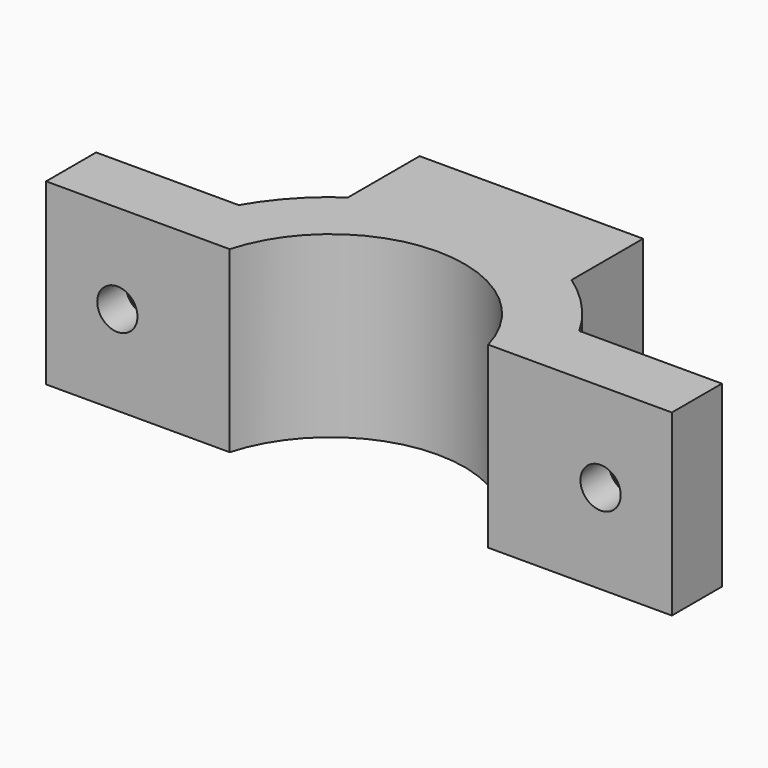
from build123d import *

# Parameters (mm, degrees)
F1_DEPTH = 10
F2_R     = 2.25
F3_DEPTH = 25
F4_R     = 5.25
F4_R_2   = 2.25
F5_DEPTH = 3
F6_W     = 25
F6_H     = 10
F7_DEPTH = 20
F8_R     = 1.75
F9_DEPTH = 4


with BuildPart() as f1:
    # F0 (on Top) → F1 (new body, symmetric)
    with BuildSketch(Plane.XY):
        with BuildLine():
            Line((-35, 7), (-35, 0))
            Line((-35, 0), (-14.456832, 0))
            ThreePointArc((-14.456832, 0), (0, 11), (14.456832, 0))
            Line((14.456832, 0), (35, 0))
            Line((35, 0), (35, 7))
            Line((35, 7), (19.052559, 7))
            ThreePointArc((19.052559, 7), (0, 18), (-19.052559, 7))
            Line((-19.052559, 7), (-35, 7))
        make_face()
    extrude(amount=F1_DEPTH, both=True)

    # F2 (on face) → F3 (cut)
    with BuildSketch(Plane(origin=(0, 7, 0), x_dir=(-1, 0, 0), z_dir=(0, 1, 0))):
        with Locations((-27.026279, 0)):
            Circle(F2_R)
        with Locations((27.026279, 0)):
            Circle(F2_R)
    extrude(amount=-F3_DEPTH, mode=Mode.SUBTRACT)

    # F4 (on face) → F5 (cut)
    with BuildSketch(Plane(origin=(0, 7, 0), x_dir=(-1, 0, 0), z_dir=(0, 1, 0))):
        with Locations((27.026279, 0)):
            Circle(F4_R)
        with Locations((27.026279, 0)):
            Circle(F4_R_2, mode=Mode.SUBTRACT)
        with Locations((-27.026279, 0)):
            Circle(F4_R)
    extrude(amount=-F5_DEPTH, mode=Mode.SUBTRACT)

    # F6 (on face) → F7 (join)
    with BuildSketch(Plane.XY.offset(10)):
        with Locations((0, 19.103867)):
            Rectangle(F6_W, F6_H)
    extrude(amount=-F7_DEPTH)

    # F8 (on face) → F9 (join)
    with BuildSketch(Plane(origin=(0, 24.103867, 0), x_dir=(-1, 0, 0), z_dir=(0, 1, 0))):
        with Locations((7.5, -5)):
            Circle(F8_R)
        with Locations((-7.5, -5)):
            Circle(F8_R)
        with Locations((7.5, 5)):
            Circle(F8_R)
        with Locations((-7.5, 5)):
            Circle(F8_R)
    extrude(amount=F9_DEPTH)


solid = f1.part
